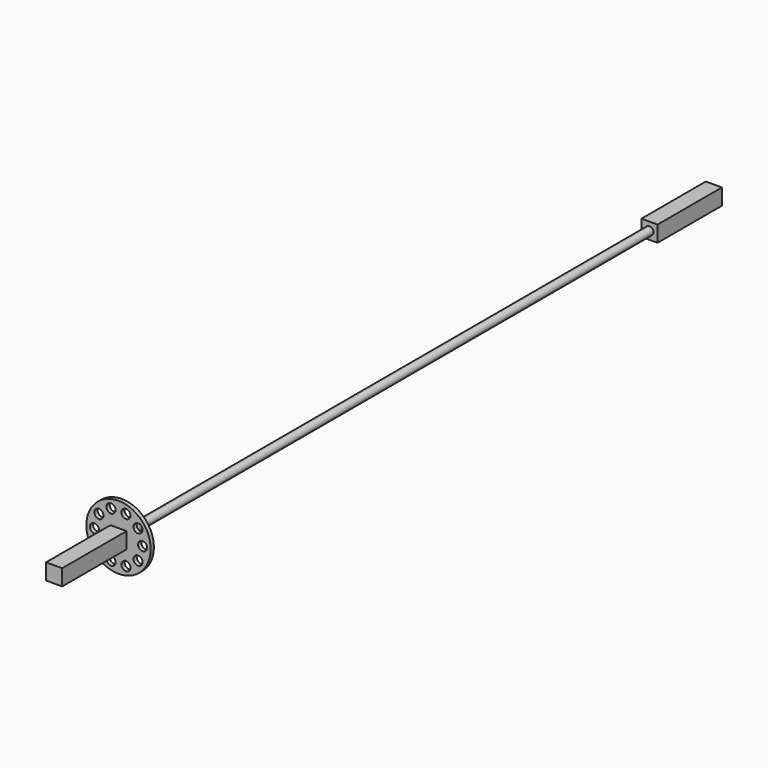
from build123d import *

# Parameters (mm, degrees)
F0_R     = 50.8
F0_R_2   = 7.14375
F1_DEPTH = 6.35
F2_W     = 25.4
F2_H     = 25.4
F3_DEPTH = 127
F4_R     = 6.35
F5_DEPTH = 1041.4
F6_W     = 25.4
F6_H     = 25.4
F7_DEPTH = 127


with BuildPart() as f1:
    # F0 (on Front) → F1 (new body)
    with BuildSketch(Plane.XZ):
        Circle(F0_R)
        with Locations((-11.773547, -36.235253)):
            Circle(F0_R_2, mode=Mode.SUBTRACT)
        with Locations((-30.823547, -22.394618)):
            Circle(F0_R_2, mode=Mode.SUBTRACT)
        with Locations((-38.1, 0)):
            Circle(F0_R_2, mode=Mode.SUBTRACT)
        with Locations((11.773547, -36.235253)):
            Circle(F0_R_2, mode=Mode.SUBTRACT)
        with Locations((30.823547, -22.394618)):
            Circle(F0_R_2, mode=Mode.SUBTRACT)
        with Locations((38.1, 0)):
            Circle(F0_R_2, mode=Mode.SUBTRACT)
        with Locations((-30.823547, 22.394618)):
            Circle(F0_R_2, mode=Mode.SUBTRACT)
        with Locations((-11.773547, 36.235253)):
            Circle(F0_R_2, mode=Mode.SUBTRACT)
        with Locations((30.823547, 22.394618)):
            Circle(F0_R_2, mode=Mode.SUBTRACT)
        with Locations((11.773547, 36.235253)):
            Circle(F0_R_2, mode=Mode.SUBTRACT)
    extrude(amount=F1_DEPTH)



with BuildPart() as f3:
    # F2 (on face) → F3 (new body)
    with BuildSketch(Plane(origin=(0, 1041.4, 0), x_dir=(-1, 0, 0), z_dir=(0, 1, 0))):
        Rectangle(F2_W, F2_H)
    extrude(amount=F3_DEPTH)


with BuildPart() as f1_1:
    add(f1.part)

    add(f3.part)  # F5 merges F3
    # F4 (on face) → F5 (join)
    with BuildSketch(Plane(origin=(0, 0, 0), x_dir=(-1, 0, 0), z_dir=(0, 1, 0))):
        Circle(F4_R)
    extrude(amount=F5_DEPTH)

    # F6 (on face) → F7 (join)
    with BuildSketch(Plane.XZ.offset(6.35)):
        Rectangle(F6_W, F6_H)
    extrude(amount=F7_DEPTH)


solid = f1_1.part
